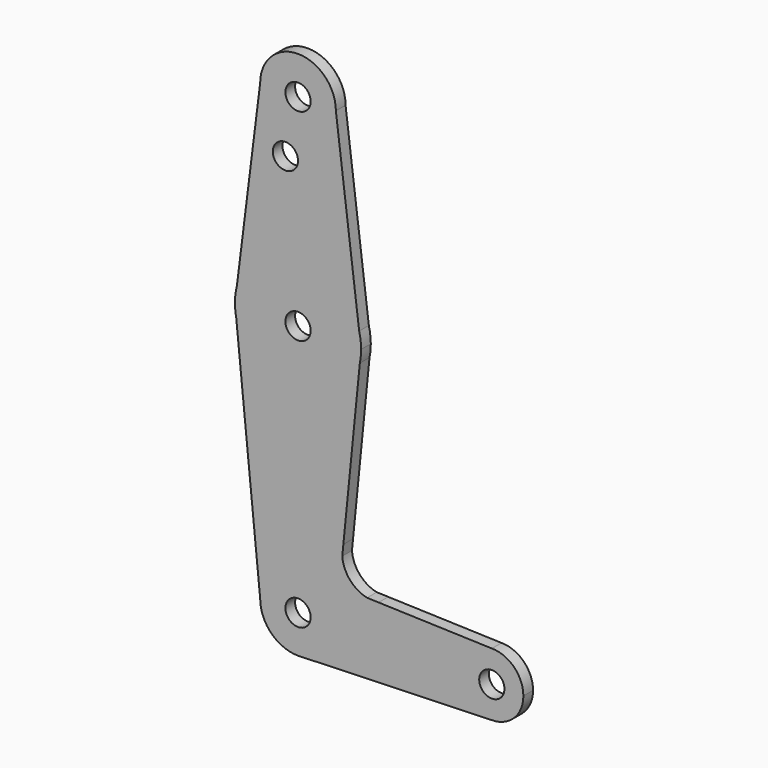
from build123d import *

# Parameters (mm, degrees)
F0_R     = 3.175
F1_DEPTH = 3.048


with BuildPart() as f1:
    # F0 (on Front) → F1 (new body)
    with BuildSketch(Plane.XZ):
        with BuildLine():
            ThreePointArc((-9.525, 66.5221907973), (0, 56.9971907973), (9.525, 66.5221907973))
            ThreePointArc((9.525, 66.5221907973), (0, 76.0471907973), (-9.525, 66.5221907973))
        make_face()
        with Locations((0, 66.5221907973)):
            Circle(F0_R, mode=Mode.SUBTRACT)
        with BuildLine():
            Line((15.3865384615, 19.629883105), (9.525, 66.5221907973))
            ThreePointArc((9.525, 66.5221907973), (0, 56.9971907973), (-9.525, 66.5221907973))
            Line((-9.525, 66.5221907973), (-15.3865384615, 19.629883105))
            ThreePointArc((-15.3865384615, 19.629883105), (0, 31.5971907973), (15.3865384615, 19.629883105))
        make_face()
        with Locations((-3.175, 52.341658622)):
            Circle(F0_R, mode=Mode.SUBTRACT)
        with BuildLine():
            Line((15.875, 15.7221907973), (15.3865384615, 19.629883105))
            ThreePointArc((15.3865384615, 19.629883105), (0, 31.5971907973), (-15.3865384615, 19.629883105))
            Line((-15.3865384615, 19.629883105), (-15.875, 15.7221907973))
            Line((-15.875, 15.7221907973), (-15.5606435644, 12.5786264409))
            ThreePointArc((-15.5606435644, 12.5786264409), (0, -0.1528092027), (15.5606435644, 12.5786264409))
            Line((15.5606435644, 12.5786264409), (15.875, 15.7221907973))
        make_face()
        with Locations((0, 15.7221907973)):
            Circle(F0_R, mode=Mode.SUBTRACT)
        with BuildLine():
            ThreePointArc((15.875, 15.7221907973), (15.7524112928, 17.6912422089), (15.3865384615, 19.629883105))
            Line((15.3865384615, 19.629883105), (15.875, 15.7221907973))
        make_face()
        with BuildLine():
            Line((-15.875, 15.7221907973), (-15.3865384615, 19.629883105))
            ThreePointArc((-15.3865384615, 19.629883105), (-15.7524112928, 17.6912422089), (-15.875, 15.7221907973))
        make_face()
        with BuildLine():
            ThreePointArc((15.5606435644, 12.5786264409), (15.7962153946, 14.1425692579), (15.875, 15.7221907973))
            Line((15.875, 15.7221907973), (15.5606435644, 12.5786264409))
        make_face()
        with BuildLine():
            Line((-15.5606435644, 12.5786264409), (-15.875, 15.7221907973))
            ThreePointArc((-15.875, 15.7221907973), (-15.7962153946, 14.1425692579), (-15.5606435644, 12.5786264409))
        make_face()
        with BuildLine():
            Line((11.4104326497, -28.9234827055), (15.5606435644, 12.5786264409))
            ThreePointArc((15.5606435644, 12.5786264409), (0, -0.1528092027), (-15.5606435644, 12.5786264409))
            Line((-15.5606435644, 12.5786264409), (-9.525, -47.7778092027))
            ThreePointArc((-9.525, -47.7778092027), (-6.7351920908, -41.0426171119), (0, -38.2528092027))
            ThreePointArc((0, -38.2528092027), (0.309842749, -38.2578500394), (0.6193575471, -38.272967214))
            Line((0.6193575471, -38.272967214), (10.4435098772, -38.5927104307))
            Line((10.4435098772, -38.5927104307), (11.1406480746, -31.6213284562))
            ThreePointArc((11.1406480746, -31.6213284562), (11.1596842937, -30.260819974), (11.4104326497, -28.9234827055))
        make_face()
        with BuildLine():
            Line((11.1406480746, -31.6213284562), (11.4104326497, -28.9234827055))
            ThreePointArc((11.4104326497, -28.9234827055), (11.1596842937, -30.260819974), (11.1406480746, -31.6213284562))
        make_face()
        with BuildLine():
            ThreePointArc((0, -38.2528092027), (-6.7351920908, -41.0426171119), (-9.525, -47.7778092027))
            ThreePointArc((-9.525, -47.7778092027), (-6.7351920908, -54.5130012935), (0, -57.3028092027))
            Line((0, -57.3028092027), (0.6193575471, -57.2826511913))
            ThreePointArc((0.6193575471, -57.2826511913), (6.9507195899, -54.2903449747), (9.525, -47.7778092027))
            ThreePointArc((9.525, -47.7778092027), (6.9507195899, -41.2652734306), (0.6193575471, -38.272967214))
            Line((0.6193575471, -38.272967214), (0, -38.2528092027))
        make_face()
        with Locations((0, -47.7778092027)):
            Circle(F0_R, mode=Mode.SUBTRACT)
        with BuildLine():
            ThreePointArc((17.370144363, -38.8181491572), (13.0593477477, -36.2550264457), (11.1406480746, -31.6213284562))
            Line((11.1406480746, -31.6213284562), (10.4435098772, -38.5927104307))
            Line((10.4435098772, -38.5927104307), (17.370144363, -38.8181491572))
        make_face()
        with BuildLine():
            Line((0.6193575471, -57.2826511913), (0, -57.3028092027))
            ThreePointArc((0, -57.3028092027), (0.309842749, -57.297768366), (0.6193575471, -57.2826511913))
        make_face()
        with BuildLine():
            Line((17.370144363, -38.8181491572), (10.4435098772, -38.5927104307))
            Line((10.4435098772, -38.5927104307), (9.525, -47.7778092027))
            ThreePointArc((9.525, -47.7778092027), (6.9507195899, -54.2903449747), (0.6193575471, -57.2826511913))
            Line((0.6193575471, -57.2826511913), (48.7761460245, -55.7153092027))
            ThreePointArc((48.7761460245, -55.7153092027), (40.8386460245, -47.7778092027), (48.7761460245, -39.8403092027))
            Line((48.7761460245, -39.8403092027), (20.2621190411, -38.9122732358))
            ThreePointArc((20.2621190411, -38.9122732358), (18.8118135488, -38.9978870226), (17.370144363, -38.8181491572))
        make_face()
        with BuildLine():
            Line((20.2621190411, -38.9122732358), (17.370144363, -38.8181491572))
            ThreePointArc((17.370144363, -38.8181491572), (18.8118135488, -38.9978870226), (20.2621190411, -38.9122732358))
        make_face()
        with BuildLine():
            ThreePointArc((48.7761460245, -39.8403092027), (40.8386460245, -47.7778092027), (48.7761460245, -55.7153092027))
            ThreePointArc((48.7761460245, -55.7153092027), (54.3888061001, -53.3904692783), (56.7136460245, -47.7778092027))
            ThreePointArc((56.7136460245, -47.7778092027), (54.3888061001, -42.165149127), (48.7761460245, -39.8403092027))
        make_face()
        with Locations((48.7761460245, -47.7778092027)):
            Circle(F0_R, mode=Mode.SUBTRACT)
        with BuildLine():
            Line((9.525, -47.7778092027), (10.4435098772, -38.5927104307))
            Line((10.4435098772, -38.5927104307), (0.6193575471, -38.272967214))
            ThreePointArc((0.6193575471, -38.272967214), (6.9507195899, -41.2652734306), (9.525, -47.7778092027))
        make_face()
    extrude(amount=F1_DEPTH)


solid = f1.part
